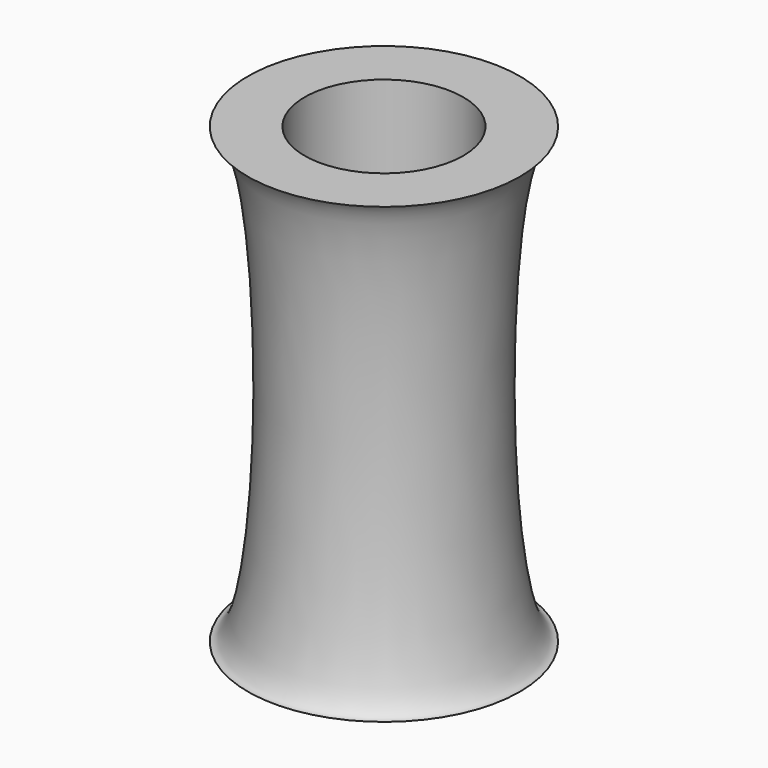
from build123d import *


with BuildPart() as f1:
    # F0 (on Front) → F1 (revolve)
    with BuildSketch(Plane.XZ):
        with BuildLine():
            Line((3.5, 20), (3.5, 0))
            Line((3.5, 0), (6, 0))
            add(Edge.make_bspline(
                [(6, 20), (4, 20), (4, 0), (6, 0)],
                knots=[0, 0, 0, 0, 20, 20, 20, 20], degree=3))
            Line((6, 20), (3.5, 20))
        make_face()
    revolve(axis=Axis((0, 0, 10.603405), (0, 0, 1)))


solid = f1.part
